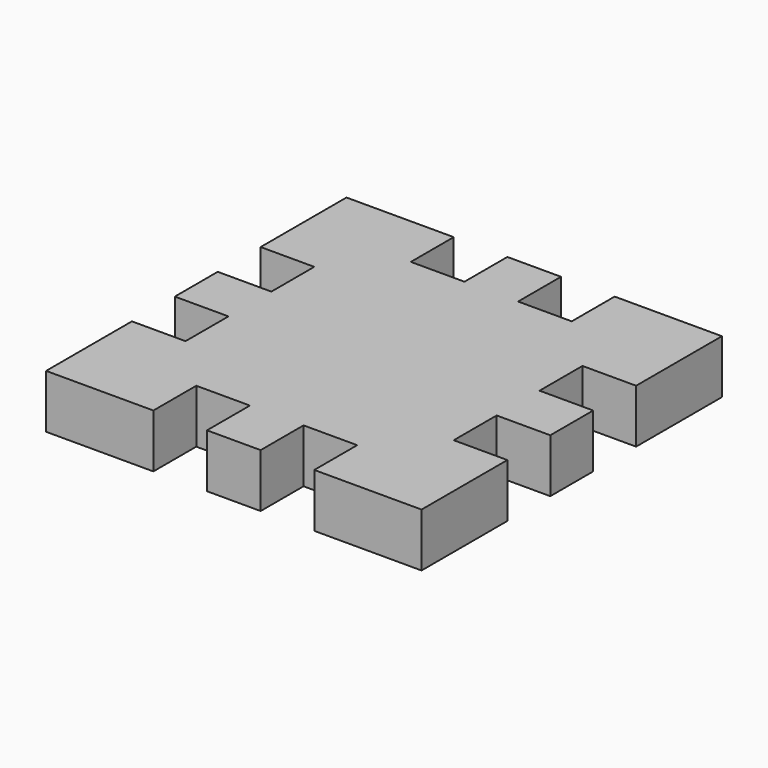
from build123d import *

# Parameters (mm, degrees)
F0_W     = 127
F0_H     = 127
F1_DEPTH = 127


with BuildPart() as f1:
    # F0 (on Top) → F1 (new body)
    with BuildSketch(Plane.XY):
        with Locations((63.5, 63.5)):
            Rectangle(F0_W, F0_H)
        Polygon((127, 0), (0, 0), (0, -127), (0, -254), (0, -381), (0, -508), (0, -635), (127, -635), (254, -635), (381, -635), (508, -635), (635, -635), (635, -508), (635, -381), (635, -254), (635, -127), (635, 0), (508, 0), (381, 0), (254, 0), align=None)
        with Locations((-63.5, 63.5)):
            Rectangle(F0_W, F0_H)
        with Locations((-63.5, -63.5)):
            Rectangle(F0_W, F0_H)
        with Locations((317.5, 63.5)):
            Rectangle(F0_W, F0_H)
        with Locations((-63.5, -317.5)):
            Rectangle(F0_W, F0_H)
        with Locations((571.5, 63.5)):
            Rectangle(F0_W, F0_H)
        with Locations((-63.5, -571.5)):
            Rectangle(F0_W, F0_H)
        with Locations((698.5, -63.5)):
            Rectangle(F0_W, F0_H)
        with Locations((698.5, 63.5)):
            Rectangle(F0_W, F0_H)
        with Locations((63.5, -698.5)):
            Rectangle(F0_W, F0_H)
        with Locations((-63.5, -698.5)):
            Rectangle(F0_W, F0_H)
        with Locations((698.5, -317.5)):
            Rectangle(F0_W, F0_H)
        with Locations((317.5, -698.5)):
            Rectangle(F0_W, F0_H)
        with Locations((698.5, -571.5)):
            Rectangle(F0_W, F0_H)
        with Locations((571.5, -698.5)):
            Rectangle(F0_W, F0_H)
        with Locations((698.5, -698.5)):
            Rectangle(F0_W, F0_H)
    extrude(amount=F1_DEPTH)


solid = f1.part
